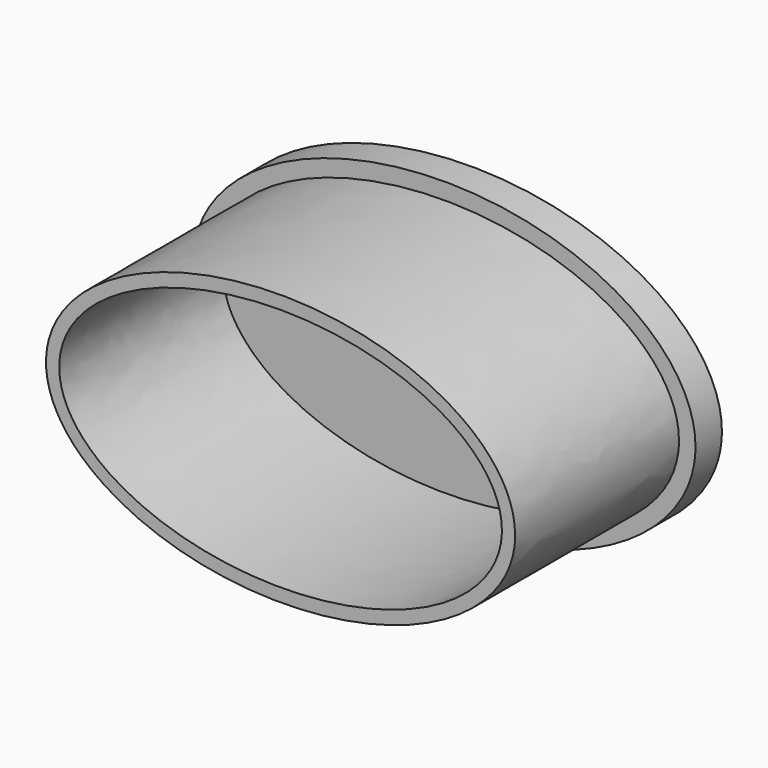
from build123d import *

# Parameters (mm, degrees)
F1_DEPTH = 31
F3_DEPTH = 5


with BuildPart() as f1:
    # F0 (on Front) → F1 (new body)
    with BuildSketch(Plane.XZ):
        with BuildLine():
            add(Edge.make_bspline(
                [(35.5, 0), (35.5, 35.507042), (-17.75, 17.753521), (-71, 0), (-17.75, -17.753521), (35.5, -35.507042), (35.5, 0)],
                knots=[0, 0, 0, 2.094395, 2.094395, 4.18879, 4.18879, 6.283185, 6.283185, 6.283185], degree=2, weights=[1, 0.5, 1, 0.5, 1, 0.5, 1]))
        make_face()
        with BuildLine():
            add(Edge.make_bspline(
                [(33.5, 0), (33.5, 32.04294), (-16.75, 16.02147), (-67, 0), (-16.75, -16.02147), (33.5, -32.04294), (33.5, 0)],
                knots=[0, 0, 0, 2.094395, 2.094395, 4.18879, 4.18879, 6.283185, 6.283185, 6.283185], degree=2, weights=[1, 0.5, 1, 0.5, 1, 0.5, 1]))
        make_face(mode=Mode.SUBTRACT)
    extrude(amount=F1_DEPTH)

    # F2 (on Front) → F3 (join)
    with BuildSketch(Plane.XZ):
        with BuildLine():
            add(Edge.make_bspline(
                [(38, 0), (38, 39.837169), (-19, 19.918584), (-76, 0), (-19, -19.918584), (38, -39.837169), (38, 0)],
                knots=[0, 0, 0, 2.094395, 2.094395, 4.18879, 4.18879, 6.283185, 6.283185, 6.283185], degree=2, weights=[1, 0.5, 1, 0.5, 1, 0.5, 1]))
        make_face()
    extrude(amount=-F3_DEPTH)


solid = f1.part
